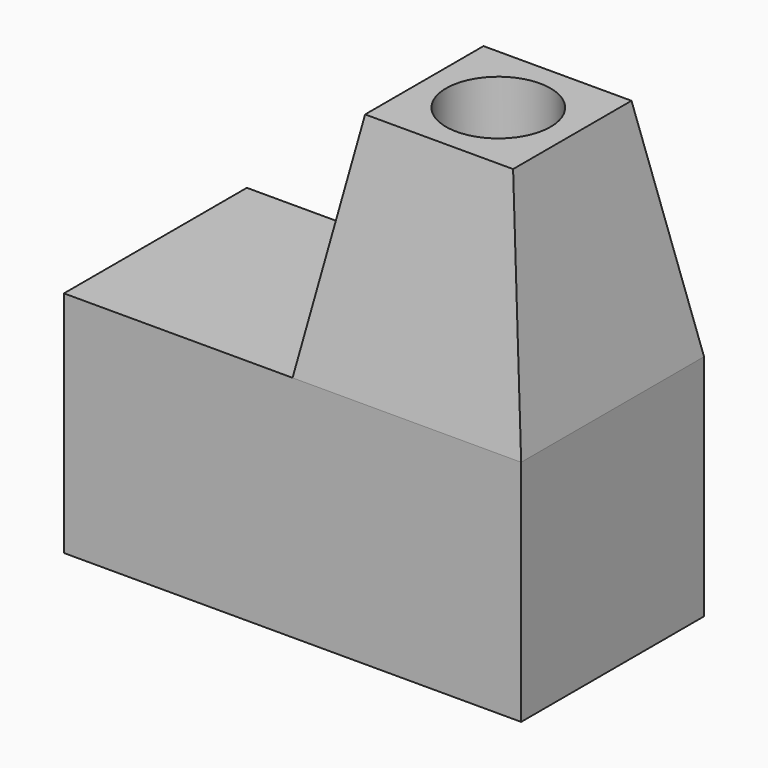
from build123d import *

# Parameters (mm, degrees)
F0_W     = 60
F0_H     = 30
F1_DEPTH = 30
F2_W     = 30
F2_H     = 30
F3_DEPTH = 30
F3_TAPER = 10
F4_R     = 6.8568709116
F5_DEPTH = 40


with BuildPart() as f1:
    # F0 (on Front) → F1 (new body)
    with BuildSketch(Plane.XZ):
        with Locations((-1.9564672485, 1.8185370226)):
            Rectangle(F0_W, F0_H)
    extrude(amount=F1_DEPTH)

    # F2 (on face) → F3 (join)
    with BuildSketch(Plane.XY.offset(16.8185370226)):
        with Locations((13.0435327515, -15)):
            Rectangle(F2_W, F2_H)
    extrude(amount=F3_DEPTH, taper=F3_TAPER)

    # F4 (on face) → F5 (cut)
    with BuildSketch(Plane.XY.offset(46.8185370226)):
        with Locations((13.0435327515, -15)):
            Circle(F4_R)
    extrude(amount=-F5_DEPTH, mode=Mode.SUBTRACT)


solid = f1.part
